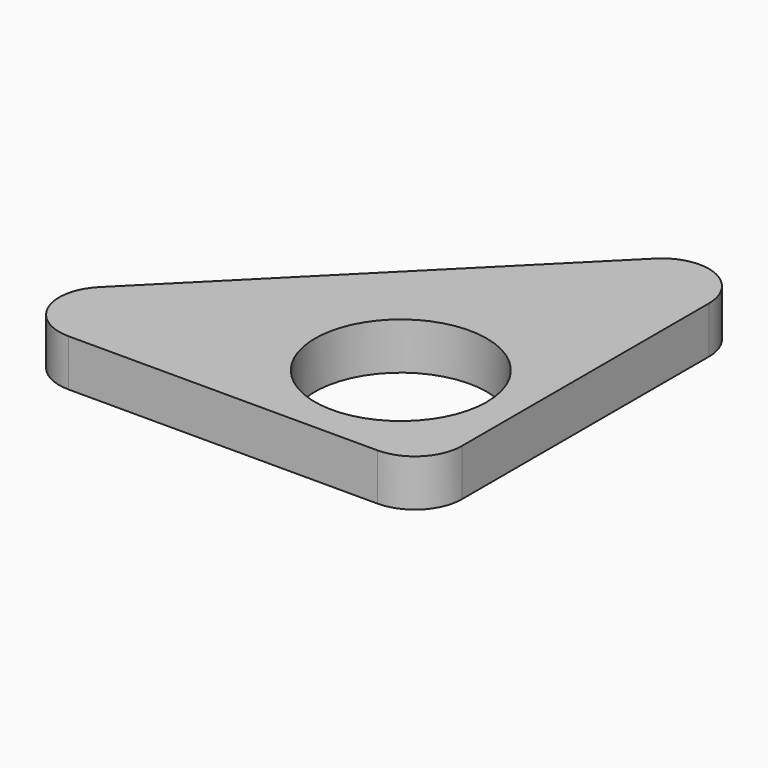
from build123d import *

# Parameters (mm, degrees)
F0_R     = 5.5
F1_DEPTH = 3
F2_R     = 3


with BuildPart() as f1:
    # F0 (on Top) → F1 (new body)
    with BuildSketch(Plane.XY):
        Polygon((7.5, -7.5), (7.5, 22.5), (-22.5, -7.5), align=None)
        Circle(F0_R, mode=Mode.SUBTRACT)
    extrude(amount=F1_DEPTH)

    # F2
    f2_edges = [f1.edges().sort_by_distance(p)[0] for p in [
        (-22.5, -7.5, 1.5),
        (7.5, -7.5, 1.5),
        (7.5, 22.5, 1.5),
    ]]
    fillet(f2_edges, radius=F2_R)


solid = f1.part
